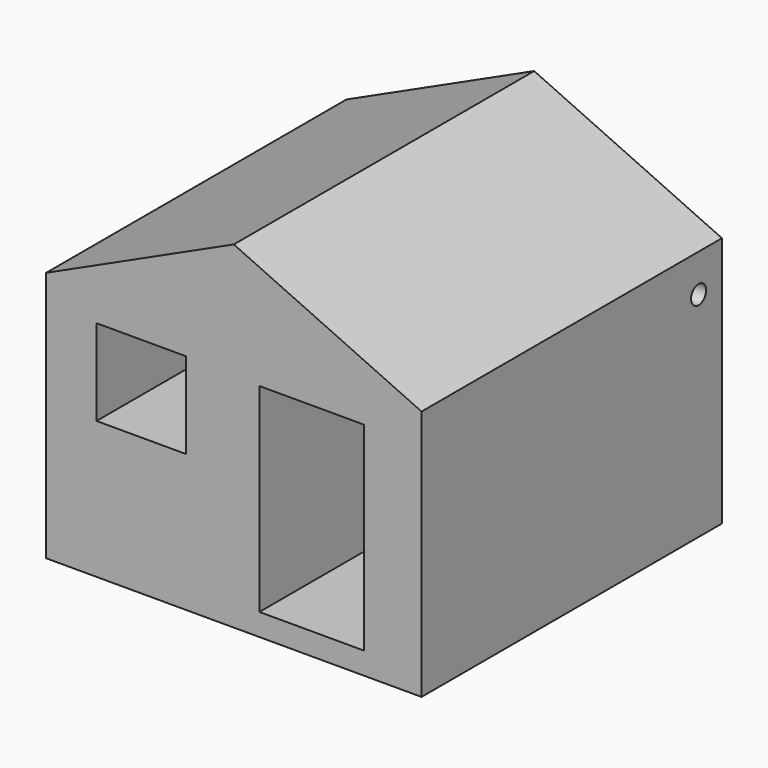
from build123d import *

# Parameters (mm, degrees)
F0_W     = 127
F0_H     = 84.9864259362
F0_W_2   = 30.296087265
F0_H_2   = 29.115720652
F1_DEPTH = 127
F3_D     = 6.35
F3_DEPTH = 63.501


with BuildPart() as f1:
    # F0 (on Front) → F1 (new body)
    with BuildSketch(Plane.XZ):
        Rectangle(F0_W, F0_H)
        Polygon((8.6560370401, -1.79e-08), (8.6560370401, 32.2633683681), (44.0670475364, 32.2633683681), (44.0670475364, -35.0175537169), (8.6560370401, -35.0175537169), align=None, mode=Mode.SUBTRACT)
        with Locations((-31.2797166407, 18.4924197383)):
            Rectangle(F0_W_2, F0_H_2, mode=Mode.SUBTRACT)
        Polygon((0, 71.6089382768), (-63.5, 42.4932129681), (63.5, 42.4932129681), align=None)
    extrude(amount=F1_DEPTH)

    # F3 (through all, one way)
    with BuildSketch(Plane(origin=(0, 0, 0), x_dir=(0, 1, 0), z_dir=(-1, 0, 0))):
        with Locations((-9.8518477753, -29.7180004418)):
            Circle(F3_D / 2)
    extrude(amount=-F3_DEPTH, mode=Mode.SUBTRACT)


solid = f1.part
